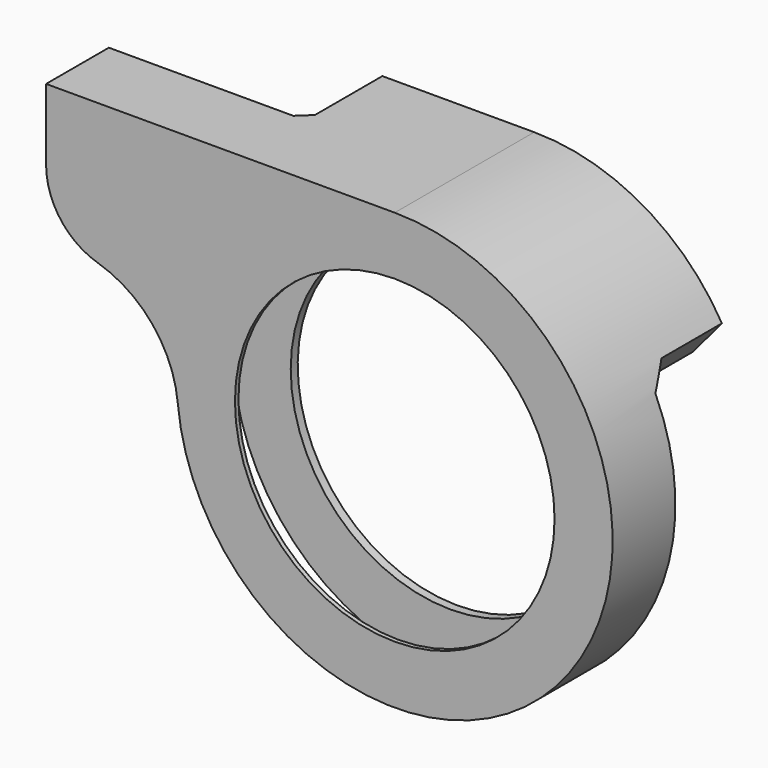
from build123d import *

# Parameters (mm, degrees)
SKETCH_R        = 55
PAD_DEPTH       = 40
PAD_DEPTH_BACK  = 20
POCKET_DEPTH    = 33
POCKET001_START = -3
POCKET001_DEPTH = 22.5
CHAMFER_SIZE    = 7
CHAMFER001_SIZE = 4
CHAMFER002_SIZE = 6
CHAMFER003_SIZE = 2
SKETCH006_R     = 1.45
POCKET002_DEPTH = 32
SKETCH007_R     = 2
POCKET003_DEPTH = 20


with BuildPart() as part:
    # Sketch → Pad (new body, two sides)
    with BuildSketch(Plane.XZ) as pad_sk:
        with BuildLine():
            Line((-120, 75), (0, 75))
            ThreePointArc((-74.66808, -7.048245), (55.468993, -50.479608), (0, 75))
            ThreePointArc((-74.66808, -7.048245), (-83.30852, 13.959176), (-102.203647, 26.566441))
            ThreePointArc((-120, 50.506104), (-115.063539, 35.591198), (-102.203647, 26.566441))
            Line((-120, 75), (-120, 50.506104))
        make_face()
        Circle(SKETCH_R, mode=Mode.SUBTRACT)
    extrude(amount=PAD_DEPTH)
    extrude(pad_sk.sketch, amount=-PAD_DEPTH_BACK)

    # Sketch001 (on Face7 of Pad) → Pocket (cut)
    with BuildSketch(Plane(origin=(0, 20, 0), x_dir=(1, 0, 0), z_dir=(0, 1, 0))):
        with BuildLine():
            Line((54.928753, -26.568443), (75.942328, -51.611447))
            ThreePointArc((75.942328, -51.611447), (26.999321, 87.761127), (-91.820361, 0))
            Line((-211.758942, -107.924309), (-91.820361, 0))
            Line((-30.973335, -107.924309), (-211.758942, -107.924309))
            Line((-16.47613, -75.395136), (-30.973335, -107.924309))
            Line((-52.401144, -75.395136), (-16.47613, -75.395136))
            Line((-42.243927, -45.896434), (-52.401144, -75.395136))
            ThreePointArc((-31.672581, -44.331432), (-37.184839, -43.583386), (-42.243927, -45.896434))
            Line((43.621241, -30.505082), (-31.672581, -44.331432))
            Line((47.528801, -26.356267), (43.621241, -30.505082))
            ThreePointArc((54.928753, -26.568443), (51.276407, -24.801164), (47.528801, -26.356267))
        make_face()
    extrude(amount=-POCKET_DEPTH, mode=Mode.SUBTRACT)

    # Sketch003 (on Face2 of Pocket) → Pocket001 (cut)
    with BuildSketch(Plane(origin=(0, -13, 0), x_dir=(1, 0, 0), z_dir=(0, 1, 0)).offset(POCKET001_START)):
        with BuildLine():
            ThreePointArc((0, -71), (66.914561, -23.736924), (44.742136, 55.128407))
            Line((44.742136, 55.128407), (-20.564905, 108.131508))
            Line((-20.564905, 108.131508), (-158.301559, 56.449516))
            Line((-158.301559, 56.449516), (-204.416763, -71.809135))
            Line((-204.416763, -71.809135), (0, -71))
        make_face()
    extrude(amount=-POCKET001_DEPTH, mode=Mode.SUBTRACT)

    # Chamfer
    chamfer_edges = [part.edges().sort_by_distance(p)[0] for p in [
        (59.765906, -13, 32.333137),
    ]]
    chamfer(chamfer_edges, length=CHAMFER_SIZE)

    # Chamfer001
    chamfer001_edges = [part.edges().sort_by_distance(p)[0] for p in [
        (-42.243927, 3.5, 45.896434),
        (-38.03091, -13, 43.746161),
        (-47.254507, -13, 60.448217),
    ]]
    chamfer(chamfer001_edges, length=CHAMFER001_SIZE)

    # Chamfer002
    chamfer002_edges = [part.edges().sort_by_distance(p)[0] for p in [
        (66.914561, -16, 23.736924),
    ]]
    chamfer(chamfer002_edges, length=CHAMFER002_SIZE)

    # Chamfer003
    chamfer003_edges = [part.edges().sort_by_distance(p)[0] for p in [
        (-60, -38.5, 71.237496),
    ]]
    chamfer(chamfer003_edges, length=CHAMFER003_SIZE)

    # Sketch006 → Pocket002 (cut)
    with BuildSketch(Plane(origin=(0, 20, 0), x_dir=(1, 0, 0), z_dir=(0, 1, 0))):
        with Locations((-39.891945, -60.695583)):
            Circle(SKETCH006_R)
        with Locations((0.518637, -64.736641)):
            Circle(SKETCH006_R)
        with Locations((26.400654, -58.963699)):
            Circle(SKETCH006_R)
        with Locations((54.206989, -34.71735)):
            Circle(SKETCH006_R)
    extrude(amount=-POCKET002_DEPTH, mode=Mode.SUBTRACT)

    # Sketch007 → Pocket003 (cut)
    with BuildSketch(Plane(origin=(0, 20, 0), x_dir=(1, 0, 0), z_dir=(0, 1, 0))):
        with Locations((-39.904575, -60.661716)):
            Circle(SKETCH007_R)
        with Locations((0.50043, -64.755608)):
            Circle(SKETCH007_R)
        with Locations((26.37031, -58.932541)):
            Circle(SKETCH007_R)
        with Locations((54.224796, -34.742435)):
            Circle(SKETCH007_R)
    extrude(amount=-POCKET003_DEPTH, mode=Mode.SUBTRACT)


solid = part.part
